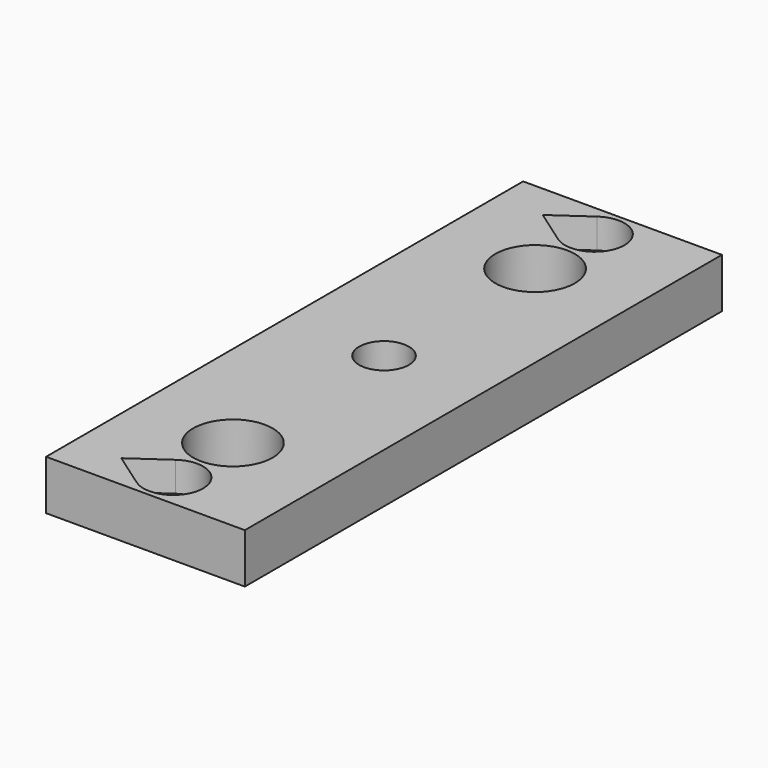
from build123d import *

# Parameters (mm, degrees)
PAD022_DEPTH             = 10
PAD023_DEPTH             = 20
CLONE091_PITCH_ANGLE     = 90
CLONE091_PLACEMENT_ANGLE = 90
CLONE090_ROLL_ANGLE      = 180
CLONE090_PLACEMENT_ANGLE = -90
CYLINDER1003_R           = 8
CYLINDER1003_DEPTH       = 5
CYLINDER1014_R           = 2.5
CYLINDER1014_DEPTH       = 100
CYLINDER1006_R           = 4
CYLINDER1006_DEPTH       = 70
ARRAY005_Y_COUNT         = 2
ARRAY005_Y_PITCH         = 38
PAD007_DEPTH             = 2.7
ARRAY002_Y_COUNT         = 2
ARRAY002_Y_PITCH         = 20
ARRAY001_Y_COUNT         = 2
ARRAY001_Y_PITCH         = 53
PAD020_DEPTH             = 10
PAD021_DEPTH             = 20
CLONE089_PLACEMENT_ANGLE = 90
ARRAY004_Y_COUNT         = 2
ARRAY004_Y_PITCH         = 20
CLONE088_ROLL_ANGLE      = 180
CLONE088_PLACEMENT_ANGLE = -90
ARRAY003_Y_COUNT         = 2
ARRAY003_Y_PITCH         = 53
PAD_DEPTH                = 20
CHAMFER_1_SIZE           = 16
CHAMFER_2_SIZE           = 5
SKETCH020_W              = 64
SKETCH020_H              = 45
POCKET_DEPTH             = 20.001
SKETCH021_W              = 52.5
SKETCH021_H              = 16
POCKET001_DEPTH          = 20.001
SKETCH022_W              = 25
SKETCH022_H              = 25
PAD019_DEPTH             = 50
CHAMFER017_SIZE          = 5
SKETCH023_W              = 20
SKETCH023_H              = 25
POCKET002_DEPTH          = 50.001
FILLET_1_R               = 4
FILLET_2_R               = 2
EXTRUDE_DEPTH            = 5
ARRAY_Z_COUNT            = 2
ARRAY_Z_PITCH            = 15
SKETCH025_W              = 20
SKETCH025_H              = 60
EXTRUDE001_DEPTH         = 5


with BuildPart() as obj1:
    # Sketch028 → Pad022 (new body)
    with BuildSketch(Plane.XY):
        with BuildLine():
            ThreePointArc((-3.2766, 2.294318), (0, -4), (3.2766, 2.294318))
            Line((0, 6.973787), (3.2766, 2.294318))
            Line((-3.2766, 2.294318), (0, 6.973787))
        make_face()
    extrude(amount=-PAD022_DEPTH)

    # Sketch029 → Pad023 (new body)
    with BuildSketch(Plane.XY):
        with BuildLine():
            ThreePointArc((-1.638314, 1.147138), (0, -2), (1.638314, 1.147138))
            Line((0, 3.486894), (1.638314, 1.147138))
            Line((-1.638314, 1.147138), (0, 3.486894))
        make_face()
    extrude(amount=PAD023_DEPTH)


with BuildPart() as obj2:
    # Clone091 base: copy of obj1
    add(obj1.part)


with BuildPart() as obj2_1:
    # Clone091 pitch: moved
    add(obj2.part.rotate(Axis((0, 0, 0), (0, 1, 0)), CLONE091_PITCH_ANGLE))


with BuildPart() as obj2_2:
    # Clone091 placement: moved
    add(obj2_1.part.moved(Location((-37, -15, 0))).rotate(Axis((-37, -15, 0), (0, 0, 1)), CLONE091_PLACEMENT_ANGLE))


with BuildPart() as obj3:
    # Clone090 base: copy of obj1
    add(obj1.part)


with BuildPart() as obj3_1:
    # Clone090 roll: moved
    add(obj3.part.rotate(Axis((0, 0, 0), (1, 0, 0)), CLONE090_ROLL_ANGLE))


with BuildPart() as obj3_2:
    # Clone090 placement: moved
    add(obj3_1.part.moved(Location((-12, 0, 15))).rotate(Axis((-12, 0, 15), (0, 0, 1)), CLONE090_PLACEMENT_ANGLE))


with BuildPart() as obj4:
    # Cylinder1003 → Cylinder1003 (new body)
    with BuildSketch(Plane.XY):
        Circle(CYLINDER1003_R)
    extrude(amount=CYLINDER1003_DEPTH)


with BuildPart() as obj4_1:
    # Clone093 placement: moved
    add(obj4.part.moved(Location((-10, -42, 5))))


with BuildPart() as obj5:
    # Cylinder1014 → Cylinder1014 (new body)
    with BuildSketch(Plane.XY):
        Circle(CYLINDER1014_R)
    extrude(amount=CYLINDER1014_DEPTH)


with BuildPart() as obj6:
    # Clone095 base: copy of obj5
    add(obj5.part)


with BuildPart() as obj6_1:
    # Clone095 placement: moved
    add(obj6.part.moved(Location((-10, -18.5, 66))))


with BuildPart() as obj7:
    # Clone094 base: copy of obj5
    add(obj5.part)


with BuildPart() as obj7_1:
    # Clone094 placement: moved
    add(obj7.part.moved(Location((-10, -42, 3.5))))


with BuildPart() as obj8:
    # Cylinder1006 → Cylinder1006 (new body)
    with BuildSketch(Plane.XY):
        Circle(CYLINDER1006_R)
    extrude(amount=CYLINDER1006_DEPTH)


with BuildPart() as obj8_1:
    # Clone092 placement: moved
    add(obj8.part.moved(Location((-10, -23, -5))))

    # Array005 Y: obj8_2


with BuildPart() as obj8_2:
    add(obj8_1.part)
    with Locations(*[(0, -i * ARRAY005_Y_PITCH, 0) for i in range(1, ARRAY005_Y_COUNT)]):
        add(obj8_1.part)


with BuildPart() as m3nuthousingmaster:
    # Sketch008 → Pad007 (new body)
    with BuildSketch(Plane.XY):
        Polygon((0, 0), (1.674316, 2.9), (21.674316, 2.9), (21.674316, -2.9), (1.674316, -2.9), align=None)
    extrude(amount=PAD007_DEPTH)


with BuildPart() as lowernuts:
    # Clone087 base: copy of M3NutHousingMaster
    add(m3nuthousingmaster.part)


with BuildPart() as lowernuts_1:
    # Clone087 placement: moved
    add(lowernuts.part.moved(Location((-15, -32, -8))))

    # Array002 Y: LowerNuts ×2


with BuildPart() as lowernuts_2:
    add(lowernuts_1.part)
    with Locations(*[(0, -i * ARRAY002_Y_PITCH, 0) for i in range(1, ARRAY002_Y_COUNT)]):
        add(lowernuts_1.part)


with BuildPart() as lowernuts_3:
    # Array002 placement: moved
    add(lowernuts_2.part.moved(Location((0, 0, 6))))


with BuildPart() as uppernuts:
    # Clone086 base: copy of M3NutHousingMaster
    add(m3nuthousingmaster.part)


with BuildPart() as uppernuts_1:
    # Clone086 placement: moved
    add(uppernuts.part.moved(Location((-14, -15.5, 3.5))))

    # Array001 Y: UpperNuts ×2


with BuildPart() as uppernuts_2:
    add(uppernuts_1.part)
    with Locations(*[(0, -i * ARRAY001_Y_PITCH, 0) for i in range(1, ARRAY001_Y_COUNT)]):
        add(uppernuts_1.part)


with BuildPart() as obj9:
    # Sketch026 → Pad020 (new body)
    with BuildSketch(Plane.XY):
        with BuildLine():
            ThreePointArc((-2.457464, 1.720718), (0, -3), (2.457464, 1.720718))
            Line((0, 5.23034), (2.457464, 1.720718))
            Line((-2.457464, 1.720718), (0, 5.23034))
        make_face()
    extrude(amount=-PAD020_DEPTH)

    # Sketch027 → Pad021 (new body)
    with BuildSketch(Plane.XY):
        with BuildLine():
            ThreePointArc((-1.228737, 0.860352), (0, -1.5), (1.228737, 0.860352))
            Line((0, 2.61517), (1.228737, 0.860352))
            Line((-1.228737, 0.860352), (0, 2.61517))
        make_face()
    extrude(amount=PAD021_DEPTH)


with BuildPart() as lowerbolts:
    # Clone089 base: copy of obj9
    add(obj9.part)


with BuildPart() as lowerbolts_1:
    # Clone089 placement: moved
    add(lowerbolts.part.moved(Location((-10.2, -32, -17))).rotate(Axis((-10.2, -32, -17), (0, 0, 1)), CLONE089_PLACEMENT_ANGLE))

    # Array004 Y: LowerBolts ×2


with BuildPart() as lowerbolts_2:
    add(lowerbolts_1.part)
    with Locations(*[(0, -i * ARRAY004_Y_PITCH, 0) for i in range(1, ARRAY004_Y_COUNT)]):
        add(lowerbolts_1.part)


with BuildPart() as upperbolts:
    # Clone088 base: copy of obj9
    add(obj9.part)


with BuildPart() as upperbolts_1:
    # Clone088 roll: moved
    add(upperbolts.part.rotate(Axis((0, 0, 0), (1, 0, 0)), CLONE088_ROLL_ANGLE))


with BuildPart() as upperbolts_2:
    # Clone088 placement: moved
    add(upperbolts_1.part.moved(Location((-10, -15.5, 12))).rotate(Axis((-10, -15.5, 12), (0, 0, 1)), CLONE088_PLACEMENT_ANGLE))

    # Array003 Y: UpperBolts ×2


with BuildPart() as upperbolts_3:
    add(upperbolts_2.part)
    with Locations(*[(0, -i * ARRAY003_Y_PITCH, 0) for i in range(1, ARRAY003_Y_COUNT)]):
        add(upperbolts_2.part)


with BuildPart() as obj10:
    # Sketch → Pad (new body)
    with BuildSketch(Plane.YZ):
        Polygon((0, 86), (-79, 86), (-79, -10), (-5, -10), (-5, 52.339746), (0, 61), align=None)
    extrude(amount=-PAD_DEPTH)

    # Chamfer 1
    chamfer_1_edges = [obj10.edges().sort_by_distance(p)[0] for p in [
        (-10, -79, 86),
    ]]
    chamfer(chamfer_1_edges, length=CHAMFER_1_SIZE)

    # Chamfer 2
    chamfer_2_edges = [obj10.edges().sort_by_distance(p)[0] for p in [
        (-10, 0, 86),
    ]]
    chamfer(chamfer_2_edges, length=CHAMFER_2_SIZE)

    # Sketch020 → Pocket (cut, through all)
    with BuildSketch(Plane.YZ):
        with Locations((-42, 37.5)):
            Rectangle(SKETCH020_W, SKETCH020_H)
    extrude(amount=-POCKET_DEPTH, mode=Mode.SUBTRACT)

    # Sketch021 → Pocket001 (cut, through all)
    with BuildSketch(Plane.YZ):
        with Locations((-33.75, 75.5)):
            Rectangle(SKETCH021_W, SKETCH021_H)
    extrude(amount=-POCKET001_DEPTH, mode=Mode.SUBTRACT)

    # Sketch022 → Pad019 (new body)
    with BuildSketch(Plane.YZ):
        with Locations((-2.5, 2.5)):
            Rectangle(SKETCH022_W, SKETCH022_H)
    extrude(amount=-PAD019_DEPTH)

    # Chamfer017
    chamfer017_edges = [obj10.edges().sort_by_distance(p)[0] for p in [
        (-10, -5, 15),
    ]]
    chamfer(chamfer017_edges, length=CHAMFER017_SIZE)

    # Sketch023 → Pocket002 (cut, through all)
    with BuildSketch(Plane.YZ):
        with Locations((0, -2.5)):
            Rectangle(SKETCH023_W, SKETCH023_H)
    extrude(amount=-POCKET002_DEPTH, mode=Mode.SUBTRACT)

    # Fillet 1
    fillet_1_edges = [obj10.edges().sort_by_distance(p)[0] for p in [
        (-35, -15, 15),
    ]]
    fillet(fillet_1_edges, radius=FILLET_1_R)

    # Fillet 2
    fillet_2_edges = [obj10.edges().sort_by_distance(p)[0] for p in [
        (-10, -5, 20),
        (-10, -5, 52.339746),
        (-10, 0, 15),
        (-10, 0, 61),
        (-10, 0, 81),
        (-10, -5, 86),
        (-10, -63, 86),
        (-10, -79, 70),
    ]]
    fillet(fillet_2_edges, radius=FILLET_2_R)


with BuildPart() as componentscut:
    # Sketch024 → Extrude (new body)
    with BuildSketch(Plane.XY.offset(15)):
        with BuildLine():
            Line((-42, -12), (-18, -12))
            Line((-18, -12), (-18, -67))
            add(Edge.make_bspline(
                [(-18, -67), (-21.374537, -28.653178), (-42, -12)],
                knots=[4.860682, 4.860682, 4.860682, 5.839233, 5.839233, 5.839233], degree=2, weights=[1, 0.882673, 1]))
        make_face()
    extrude(amount=-EXTRUDE_DEPTH)


with BuildPart() as componentscut_1:
    # Extrude placement: moved
    add(componentscut.part.moved(Location((0, 0, -5))))

    # Array Z: ComponentsCut ×2


with BuildPart() as componentscut_2:
    add(componentscut_1.part)
    with Locations(*[(0, 0, -i * ARRAY_Z_PITCH) for i in range(1, ARRAY_Z_COUNT)]):
        add(componentscut_1.part)

    # Fusion: union obj10
    add(obj10.part)

    # Cut: cut UpperBolts
    add(upperbolts_3.part, mode=Mode.SUBTRACT)

    # Cut001: cut LowerBolts
    add(lowerbolts_2.part, mode=Mode.SUBTRACT)

    # Cut002: cut UpperNuts
    add(uppernuts_2.part, mode=Mode.SUBTRACT)

    # Cut003: cut LowerNuts
    add(lowernuts_3.part, mode=Mode.SUBTRACT)

    # Cut004: cut obj8
    add(obj8_2.part, mode=Mode.SUBTRACT)

    # Cut005: cut obj7
    add(obj7_1.part, mode=Mode.SUBTRACT)

    # Cut006: cut obj6
    add(obj6_1.part, mode=Mode.SUBTRACT)

    # Cut007: cut obj4
    add(obj4_1.part, mode=Mode.SUBTRACT)

    # Cut008: cut obj3
    add(obj3_2.part, mode=Mode.SUBTRACT)

    # Cut009: cut obj2
    add(obj2_2.part, mode=Mode.SUBTRACT)


with BuildPart() as upperlidcommon:
    # Sketch025 → Extrude001 (new body)
    with BuildSketch(Plane.XY.offset(15)):
        with Locations((-10, -42)):
            Rectangle(SKETCH025_W, SKETCH025_H)
    extrude(amount=-EXTRUDE001_DEPTH)

    # Common: intersect ComponentsCut
    add(componentscut_2.part, mode=Mode.INTERSECT)


solid = upperlidcommon.part
